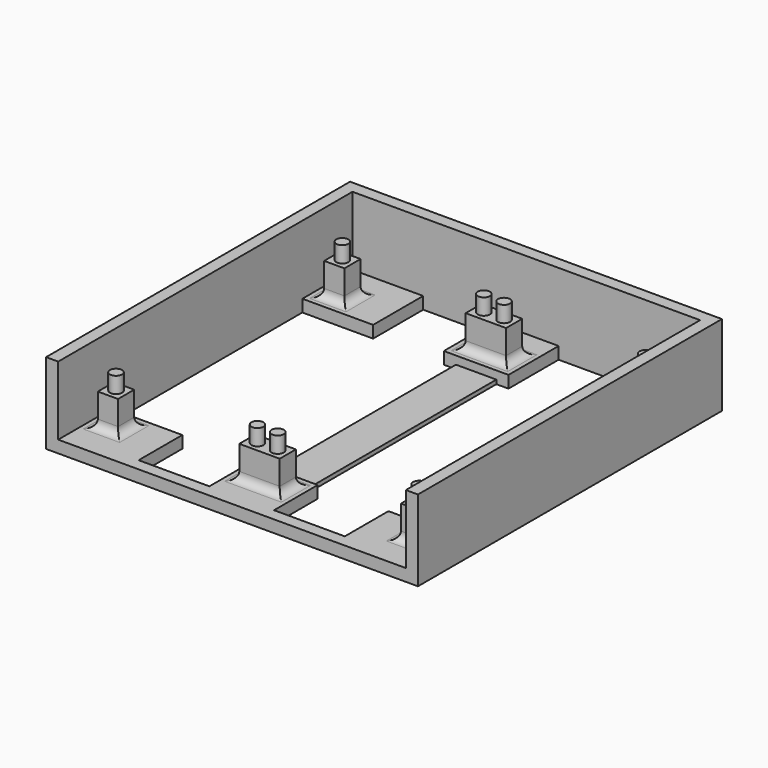
from build123d import *

# Parameters (mm, degrees)
F1_W     = 3
F1_H     = 5.5
F1_H_2   = 7.5
F1_H_3   = 5
F1_H_4   = 3
F1_W_2   = 17.5
F1_W_3   = 10
F2_DEPTH = 3
F3_DEPTH = 20
F0_W     = 5
F0_H     = 5
F0_R     = 1.5
F4_DEPTH = 11
F5_DEPTH = 15
F6_R     = 2
F1_H_5   = 59
F7_DEPTH = 1


with BuildPart() as f2:
    # F1 (on Top) → F2 (new body)
    with BuildSketch(Plane.XY):
        with Locations((-6.5, -41.25)):
            Rectangle(F1_W, F1_H)
        with Locations((-6.5, 40.25)):
            Rectangle(F1_W, F1_H_2)
        with Locations((-6.5, 34)):
            Rectangle(F1_W, F1_H_3)
        with Locations((-6.5, 30)):
            Rectangle(F1_W, F1_H_4)
        with Locations((-6.5, -36)):
            Rectangle(F1_W, F1_H_3)
        with Locations((-6.5, -32)):
            Rectangle(F1_W, F1_H_4)
        Polygon((43, -47), (43, -44), (25.5, -44), (8, -44), (5, -44), (-5, -44), (-8, -44), (-25.5, -44), (-43, -44), (-43, -47), align=None)
        Polygon((43, -38.5), (43, -44), (43, -47), (46, -47), (46, 47), (-46, 47), (-46, -47), (-43, -47), (-43, -44), (-43, -38.5), (-43, -33.5), (-43, -30.5), (-43, 28.5), (-43, 31.5), (-43, 36.5), (-43, 44), (-25.5, 44), (-8, 44), (-5, 44), (5, 44), (8, 44), (25.5, 44), (43, 44), (43, 36.5), (43, 31.5), (43, 28.5), (43, -30.5), (43, -33.5), align=None)
        with Locations((-34.25, 40.25)):
            Rectangle(F1_W_2, F1_H_2)
        with Locations((0, 40.25)):
            Rectangle(F1_W_3, F1_H_2)
        with Locations((6.5, 40.25)):
            Rectangle(F1_W, F1_H_2)
        with Locations((34.25, 40.25)):
            Rectangle(F1_W_2, F1_H_2)
        with Locations((34.25, 34)):
            Rectangle(F1_W_2, F1_H_3)
        with Locations((6.5, 34)):
            Rectangle(F1_W, F1_H_3)
        with Locations((-34.25, 34)):
            Rectangle(F1_W_2, F1_H_3)
        with Locations((0, 34)):
            Rectangle(F1_W_3, F1_H_3)
        with Locations((-34.25, 30)):
            Rectangle(F1_W_2, F1_H_4)
        with Locations((6.5, 30)):
            Rectangle(F1_W, F1_H_4)
        with Locations((34.25, 30)):
            Rectangle(F1_W_2, F1_H_4)
        with Locations((0, 30)):
            Rectangle(F1_W_3, F1_H_4)
        with Locations((0, -41.25)):
            Rectangle(F1_W_3, F1_H)
        with Locations((0, -36)):
            Rectangle(F1_W_3, F1_H_3)
        with Locations((0, -32)):
            Rectangle(F1_W_3, F1_H_4)
        with Locations((6.5, -41.25)):
            Rectangle(F1_W, F1_H)
        with Locations((6.5, -36)):
            Rectangle(F1_W, F1_H_3)
        with Locations((6.5, -32)):
            Rectangle(F1_W, F1_H_4)
        with Locations((-34.25, -32)):
            Rectangle(F1_W_2, F1_H_4)
        with Locations((34.25, -32)):
            Rectangle(F1_W_2, F1_H_4)
        with Locations((34.25, -36)):
            Rectangle(F1_W_2, F1_H_3)
        with Locations((-34.25, -36)):
            Rectangle(F1_W_2, F1_H_3)
        with Locations((-34.25, -41.25)):
            Rectangle(F1_W_2, F1_H)
        with Locations((34.25, -41.25)):
            Rectangle(F1_W_2, F1_H)
    extrude(amount=F2_DEPTH)

    # F1 (on Top) → F3 (join)
    with BuildSketch(Plane.XY):
        Polygon((43, -38.5), (43, -44), (43, -47), (46, -47), (46, 47), (-46, 47), (-46, -47), (-43, -47), (-43, -44), (-43, -38.5), (-43, -33.5), (-43, -30.5), (-43, 28.5), (-43, 31.5), (-43, 36.5), (-43, 44), (-25.5, 44), (-8, 44), (-5, 44), (5, 44), (8, 44), (25.5, 44), (43, 44), (43, 36.5), (43, 31.5), (43, 28.5), (43, -30.5), (43, -33.5), align=None)
    extrude(amount=F3_DEPTH)

    # F0 (on Top) → F4 (join)
    with BuildSketch(Plane.XY):
        with Locations((37.5, 34)):
            Rectangle(F0_W, F0_H)
        with Locations((37.5, 34)):
            Circle(F0_R, mode=Mode.SUBTRACT)
        with Locations((2.5, 34)):
            Rectangle(F0_W, F0_H)
        with Locations((2.5, 34)):
            Circle(F0_R, mode=Mode.SUBTRACT)
        with Locations((-2.5, 34)):
            Rectangle(F0_W, F0_H)
        with Locations((-2.5, 34)):
            Circle(F0_R, mode=Mode.SUBTRACT)
        with Locations((-37.5, 34)):
            Rectangle(F0_W, F0_H)
        with Locations((-37.5, 34)):
            Circle(F0_R, mode=Mode.SUBTRACT)
        with Locations((37.5, -36)):
            Rectangle(F0_W, F0_H)
        with Locations((37.5, -36)):
            Circle(F0_R, mode=Mode.SUBTRACT)
        with Locations((-2.5, -36)):
            Rectangle(F0_W, F0_H)
        with Locations((-2.5, -36)):
            Circle(F0_R, mode=Mode.SUBTRACT)
        with Locations((2.5, -36)):
            Rectangle(F0_W, F0_H)
        with Locations((2.5, -36)):
            Circle(F0_R, mode=Mode.SUBTRACT)
        with Locations((-37.5, -36)):
            Rectangle(F0_W, F0_H)
        with Locations((-37.5, -36)):
            Circle(F0_R, mode=Mode.SUBTRACT)
        with Locations((37.5, 34)):
            Circle(F0_R)
        with Locations((2.5, 34)):
            Circle(F0_R)
        with Locations((-2.5, 34)):
            Circle(F0_R)
        with Locations((-37.5, 34)):
            Circle(F0_R)
        with Locations((37.5, -36)):
            Circle(F0_R)
        with Locations((-2.5, -36)):
            Circle(F0_R)
        with Locations((2.5, -36)):
            Circle(F0_R)
        with Locations((-37.5, -36)):
            Circle(F0_R)
    extrude(amount=F4_DEPTH)

    # F0 (on Top) → F5 (join)
    with BuildSketch(Plane.XY):
        with Locations((37.5, -36)):
            Circle(F0_R)
        with Locations((2.5, -36)):
            Circle(F0_R)
        with Locations((-2.5, -36)):
            Circle(F0_R)
        with Locations((-37.5, -36)):
            Circle(F0_R)
        with Locations((-37.5, 34)):
            Circle(F0_R)
        with Locations((-2.5, 34)):
            Circle(F0_R)
        with Locations((2.5, 34)):
            Circle(F0_R)
        with Locations((37.5, 34)):
            Circle(F0_R)
    extrude(amount=F5_DEPTH)

    # F6
    f6_edges = [f2.edges().sort_by_distance(p)[0] for p in [
        (-37.5, -38.5, 3),
        (-35, -36, 3),
        (-37.5, -33.5, 3),
        (-40, -36, 3),
        (0, -38.5, 3),
        (-37.5, 31.5, 3),
        (0, 31.5, 3),
        (37.5, -38.5, 3),
        (5, -36, 3),
        (5, 34, 3),
        (-35, 34, 3),
        (-5, 34, 3),
        (-5, -36, 3),
        (35, 34, 3),
        (37.5, 31.5, 3),
        (35, -36, 3),
        (0, -33.5, 3),
        (40, -36, 3),
        (37.5, -33.5, 3),
        (-37.5, 36.5, 3),
        (-40, 34, 3),
        (0, 36.5, 3),
        (37.5, 36.5, 3),
        (40, 34, 3),
    ]]
    fillet(f6_edges, radius=F6_R)

    # F1 (on Top) → F7 (join)
    with BuildSketch(Plane.XY):
        with Locations((0, -1)):
            Rectangle(F1_W_3, F1_H_5)
    extrude(amount=F7_DEPTH)


solid = f2.part
